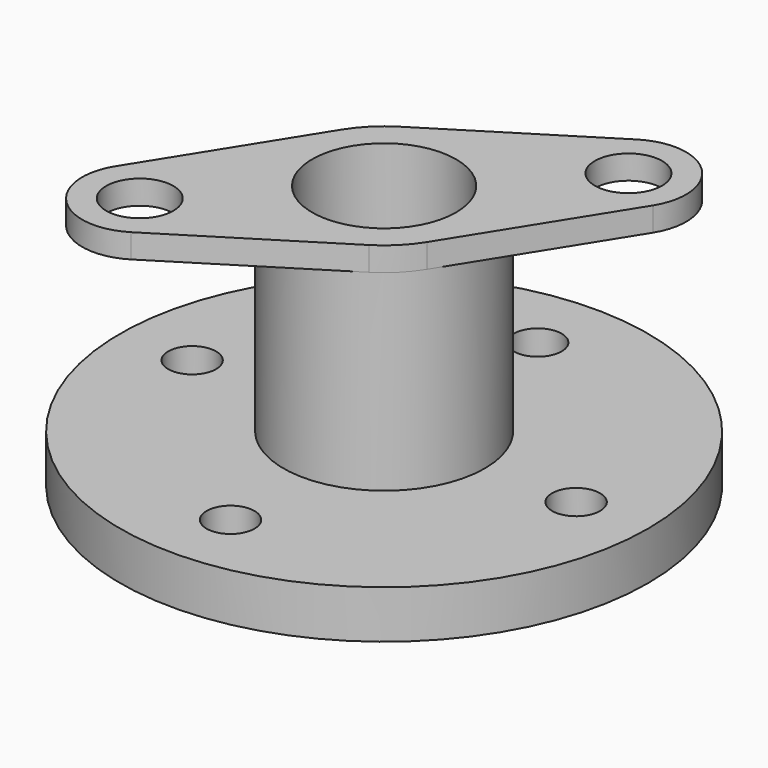
from build123d import *

# Parameters (mm, degrees)
SKETCH_R           = 55
SKETCH_R_2         = 9
PAD_DEPTH          = 10
SKETCH001_R        = 5
POCKET_DEPTH       = 321.770145
POLARPATTERN_COUNT = 4
SKETCH002_R        = 21
PAD001_DEPTH       = 45
SKETCH003_R        = 15
POCKET001_DEPTH    = 40
SKETCH004_R        = 9
POCKET002_DEPTH    = 5
SKETCH005_R        = 7
SKETCH005_R_2      = 15
PAD002_DEPTH       = 5


with BuildPart() as part:
    # Sketch → Pad (new body)
    with BuildSketch(Plane.XY):
        Circle(SKETCH_R)
        Circle(SKETCH_R_2, mode=Mode.SUBTRACT)
    extrude(amount=PAD_DEPTH)

    # Sketch001 → Pocket (cut, through all)
    with BuildSketch(Plane.XY.offset(10)):
        with Locations((40, 0)):
            Circle(SKETCH001_R)
    pocket = extrude(amount=-POCKET_DEPTH, mode=Mode.SUBTRACT)

    # PolarPattern: Pocket ×4 about axis
    polarpattern_axis = Axis((0, 0, 10), (0, 0, 1))
    for i in range(1, POLARPATTERN_COUNT):
        add(pocket.rotate(polarpattern_axis, i * 360 / POLARPATTERN_COUNT), mode=Mode.SUBTRACT)

    # Sketch002 → Pad001 (new body)
    with BuildSketch(Plane.XY.offset(10)):
        Circle(SKETCH002_R)
    extrude(amount=PAD001_DEPTH)

    # Sketch003 → Pocket001 (cut)
    with BuildSketch(Plane.XY.offset(55)):
        Circle(SKETCH003_R)
    extrude(amount=-POCKET001_DEPTH, mode=Mode.SUBTRACT)

    # Sketch004 → Pocket002 (cut)
    with BuildSketch(Plane.XY.offset(15)):
        Circle(SKETCH004_R)
    extrude(amount=-POCKET002_DEPTH, mode=Mode.SUBTRACT)

    # Sketch005 → Pad002 (new body)
    with BuildSketch(Plane.XY.offset(55)):
        with BuildLine():
            ThreePointArc((-38.461152, -21.925726), (-36.769553, -36.769553), (-21.925726, -38.461152))
            Line((-21.925726, -38.461152), (11.127411, -17.809568))
            ThreePointArc((11.127411, -17.809568), (14.849242, -14.849243), (17.809568, -11.127412))
            Line((17.809568, -11.127412), (38.461174, 21.925761))
            ThreePointArc((38.461174, 21.925761), (36.769553, 36.769553), (21.925761, 38.461174))
            Line((21.925761, 38.461174), (-11.127412, 17.809568))
            ThreePointArc((-11.127412, 17.809568), (-14.849243, 14.849242), (-17.809568, 11.127411))
            Line((-38.461152, -21.925726), (-17.809568, 11.127411))
        make_face()
        with Locations((-28.284271, -28.284271)):
            Circle(SKETCH005_R, mode=Mode.SUBTRACT)
        with Locations((28.284271, 28.284271)):
            Circle(SKETCH005_R, mode=Mode.SUBTRACT)
        Circle(SKETCH005_R_2, mode=Mode.SUBTRACT)
    extrude(amount=-PAD002_DEPTH)


solid = part.part
